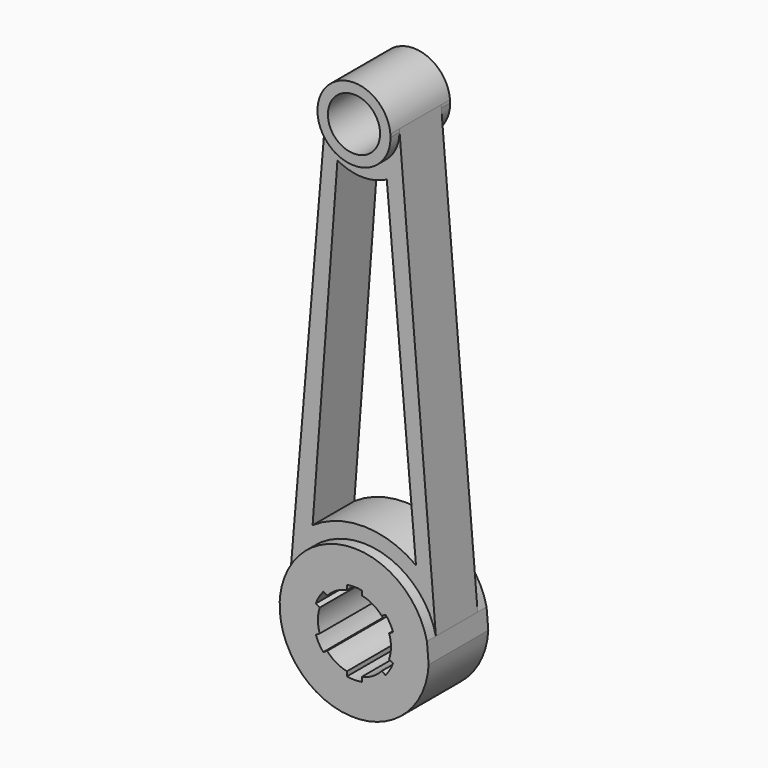
from build123d import *

# Parameters (mm, degrees)
F1_DEPTH = 17.5
F0_R     = 17.5
F2_DEPTH = 25


with BuildPart() as f1:
    # F0 (on Front) → F1 (new body, symmetric)
    with BuildSketch(Plane.XZ):
        with BuildLine():
            Line((-24.546732, 302.466695), (-49.653914, 5.872721))
            ThreePointArc((-49.653914, 5.872721), (-2.530802, 49.935909), (48.805743, 10.862754))
            Line((48.805743, 10.862754), (24.279747, 302.453588))
            ThreePointArc((24.279747, 302.453588), (24.344394, 301.427758), (24.365955, 300.40012))
            ThreePointArc((24.365955, 300.40012), (-1.168255, 275.921958), (-24.546732, 302.466695))
        make_face()
        with BuildLine():
            Line((15.85419, 269.828461), (35.454395, 48.404399))
            ThreePointArc((35.454395, 48.404399), (0.952712, 59.992436), (-33.899529, 49.505776))
            Line((-33.899529, 49.505776), (-17.222943, 270.429808))
            ThreePointArc((-17.222943, 270.429808), (-0.761157, 265.90582), (15.85419, 269.828461))
        make_face(mode=Mode.SUBTRACT)
    extrude(amount=F1_DEPTH, both=True)

    # F0 (on Front) → F2 (join, symmetric)
    with BuildSketch(Plane.XZ):
        with BuildLine():
            ThreePointArc((24.279747, 302.453588), (-0.127468, 324.900119), (-24.546732, 302.466695))
            ThreePointArc((-24.546732, 302.466695), (-1.168255, 275.921958), (24.365955, 300.40012))
            ThreePointArc((24.365955, 300.40012), (24.344394, 301.427758), (24.279747, 302.453588))
        make_face()
        with Locations((-0.134045, 300.40012)):
            Circle(F0_R, mode=Mode.SUBTRACT)
        with BuildLine():
            Line((-49.653914, 5.872721), (-49.934543, 2.557611))
            ThreePointArc((-49.934543, 2.557611), (-2.557611, -49.934543), (49.934543, -2.557611))
            Line((49.934543, -2.557611), (48.805743, 10.862754))
            ThreePointArc((48.805743, 10.862754), (-2.530802, 49.935909), (-49.653914, 5.872721))
        make_face()
        with BuildLine():
            ThreePointArc((-23.108236, -7.906897), (-24.337163, -0.244839), (-23.108236, 7.417219))
            Line((-23.108236, 7.417219), (-25.625977, 8.870837))
            Line((-25.625977, 8.870837), (-25.755905, 8.945851))
            ThreePointArc((-25.755905, 8.945851), (-23.652861, 13.505161), (-20.755905, 17.606105))
            Line((-20.755905, 17.606105), (-18.108236, 16.077473))
            ThreePointArc((-18.108236, 16.077473), (-12.087163, 20.972784), (-4.837163, 23.739531))
            Line((-4.837163, 23.739531), (-4.837163, 26.796796))
            ThreePointArc((-4.837163, 26.796796), (0.162837, 27.255161), (5.162837, 26.796796))
            Line((5.162837, 26.796796), (5.162837, 23.739531))
            ThreePointArc((5.162837, 23.739531), (12.412837, 20.972784), (18.433911, 16.077473))
            Line((18.433911, 16.077473), (21.08158, 17.606105))
            ThreePointArc((21.08158, 17.606105), (23.978536, 13.505161), (26.08158, 8.945851))
            Line((26.08158, 8.945851), (23.433911, 7.417219))
            ThreePointArc((23.433911, 7.417219), (24.662837, -0.244839), (23.433911, -7.906897))
            Line((23.433911, -7.906897), (26.08158, -9.435529))
            ThreePointArc((26.08158, -9.435529), (23.978536, -13.994839), (21.08158, -18.095783))
            Line((21.08158, -18.095783), (18.433911, -16.567151))
            ThreePointArc((18.433911, -16.567151), (12.412837, -21.462461), (5.162837, -24.229209))
            Line((5.162837, -24.229209), (5.162837, -27.286473))
            ThreePointArc((5.162837, -27.286473), (0.162837, -27.744839), (-4.837163, -27.286473))
            Line((-4.837163, -27.286473), (-4.837163, -24.229209))
            ThreePointArc((-4.837163, -24.229209), (-12.087163, -21.462461), (-18.108236, -16.567151))
            Line((-18.108236, -16.567151), (-20.755905, -18.095783))
            ThreePointArc((-20.755905, -18.095783), (-23.652861, -13.994839), (-25.755905, -9.435529))
            Line((-25.755905, -9.435529), (-23.108236, -7.906897))
        make_face(mode=Mode.SUBTRACT)
    extrude(amount=F2_DEPTH, both=True)


solid = f1.part
